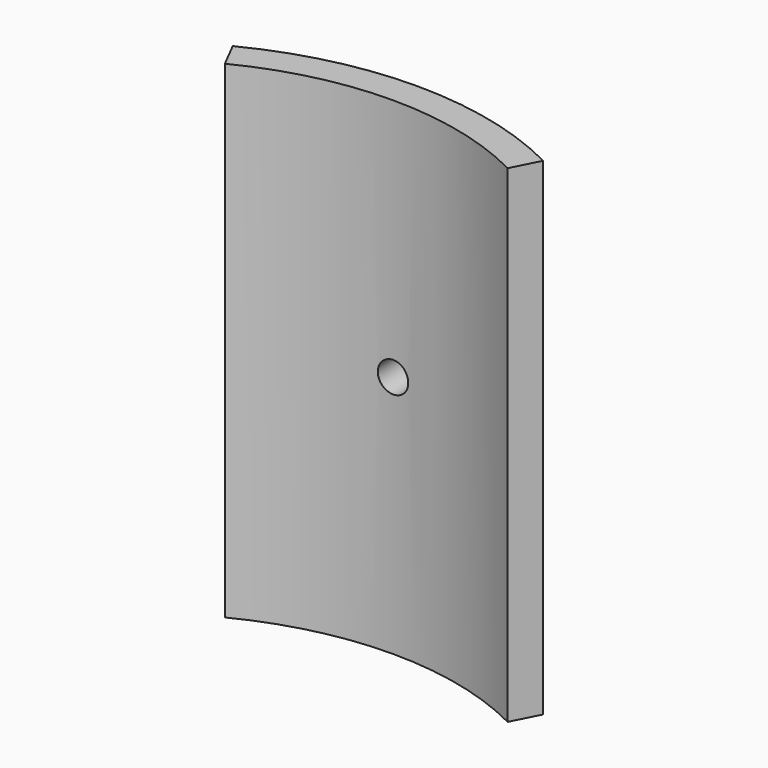
from build123d import *

# Parameters (mm, degrees)
F1_DEPTH = 25.4
F2_R     = 0.79375
F3_DEPTH = 18.8599085


with BuildPart() as f1:
    # F0 (on Top) → F1 (new body)
    with BuildSketch(Plane.XY):
        with BuildLine():
            ThreePointArc((-7.3684509074, 14.5085218531), (0, 16.2724084), (7.3684509074, 14.5085218531))
            Line((7.3684509074, 14.5085218531), (8.0873006024, 15.9239410016))
            ThreePointArc((8.0873006024, 15.9239410016), (0, 17.8599084), (-8.0873006024, 15.9239410016))
            Line((-8.0873006024, 15.9239410016), (-7.3684509074, 14.5085218531))
        make_face()
    extrude(amount=F1_DEPTH)

    # F2 (on Front) → F3 (cut, up to face)
    with BuildSketch(Plane.XZ):
        with Locations((0, 12.7)):
            Circle(F2_R)
    extrude(amount=-F3_DEPTH, mode=Mode.SUBTRACT)


solid = f1.part
